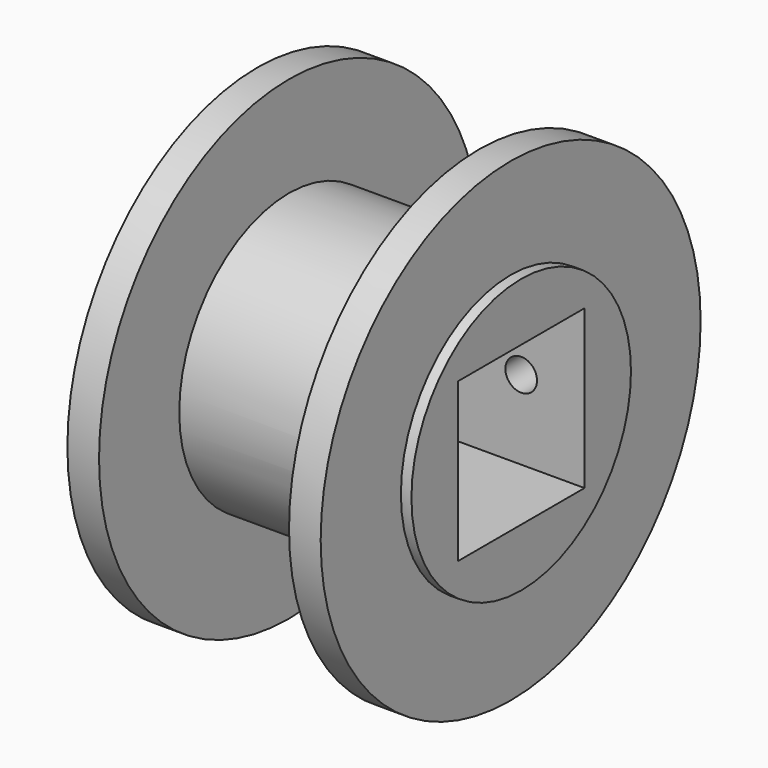
from build123d import *

# Parameters (mm, degrees)
SKETCH001_W          = 15
SKETCH001_H          = 15
POCKET_DEPTH         = 26.001
SKETCH002_R          = 1.5
POCKET001_DEPTH      = 15.001
POCKET001_DEPTH_BACK = -30.001


with BuildPart() as part:
    # Sketch → Revolution (revolve)
    with BuildSketch(Plane.XZ):
        Polygon((-12, -13), (-12, -22.5), (-9, -22.5), (-9, -13), (9, -13), (9, -22.5), (12, -22.5), (12, -13), (13, -13), (13, 0), (-13, 0), (-13, -13), align=None)
    revolve(axis=Axis((0, 0, 0), (1, 0, 0)))

    # Sketch001 → Pocket (cut, through all)
    with BuildSketch(Plane(origin=(13, 0, 0), x_dir=(0, 0, 1), z_dir=(1, 0, 0))):
        Rectangle(SKETCH001_W, SKETCH001_H)
    extrude(amount=-POCKET_DEPTH, mode=Mode.SUBTRACT)

    # Sketch002 → Pocket001 (cut, two sides)
    with BuildSketch(Plane.XZ.offset(-7.5)) as pocket001_sk:
        with Locations((7, 0)):
            Circle(SKETCH002_R)
    extrude(amount=-POCKET001_DEPTH, mode=Mode.SUBTRACT)
    extrude(pocket001_sk.sketch, amount=-POCKET001_DEPTH_BACK, mode=Mode.SUBTRACT)


solid = part.part
